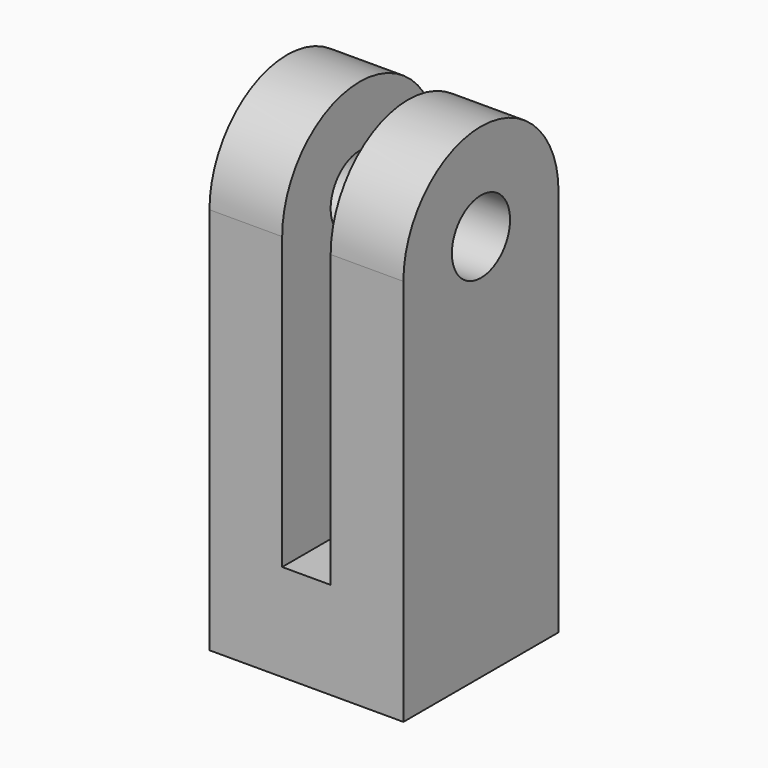
from build123d import *

# Parameters (mm, degrees)
SKETCH007_W           = 10
SKETCH007_H           = 85.035517
EXTRUDE007_DEPTH      = 50
SKETCH006_R           = 7.5
EXTRUDE006_DEPTH      = 20
CLONE_PLACEMENT_ANGLE = 180


with BuildPart() as extrude007:
    # Sketch007 → Extrude007 (new body)
    with BuildSketch(Plane.XZ.offset(20)):
        with Locations((0, 17.482242)):
            Rectangle(SKETCH007_W, SKETCH007_H)
    extrude(amount=-EXTRUDE007_DEPTH)


with BuildPart() as cut003:
    # Sketch006 → Extrude006 (new body, symmetric)
    with BuildSketch(Plane.YZ):
        with BuildLine():
            ThreePointArc((-20, 9e-06), (1.3e-05, -20), (20, 3.6e-05))
            Line((20, 80), (20, 3.6e-05))
            Line((-20, 80), (20, 80))
            Line((-20, 9e-06), (-20, 80))
        make_face()
        Circle(SKETCH006_R, mode=Mode.SUBTRACT)
    extrude(amount=EXTRUDE006_DEPTH, both=True)

    # Cut002: cut Extrude007
    add(extrude007.part, mode=Mode.SUBTRACT)


with BuildPart() as cut003_1:
    # Clone placement: moved
    add(cut003.part.moved(Location((0, 0, 510))).rotate(Axis((0, 0, 510), (0, 1, 0)), CLONE_PLACEMENT_ANGLE))


solid = cut003_1.part
